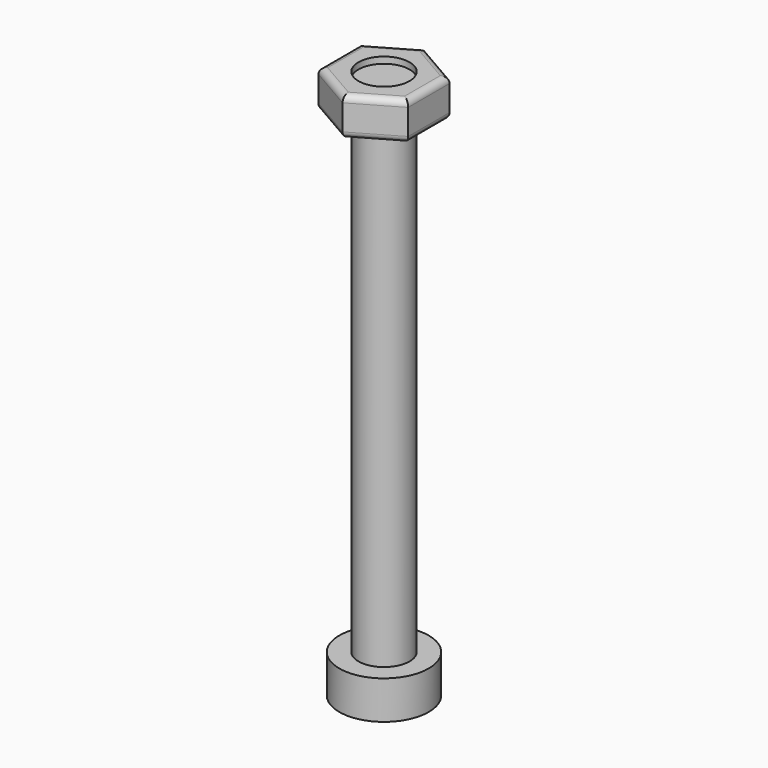
from build123d import *

# Parameters (mm, degrees)
F0_R     = 2
F1_DEPTH = 40
F0_R_2   = 3.5
F2_DEPTH = 3
F3_R     = 2
F4_DEPTH = 3
F5_DEPTH = 0.5
F6_R     = 0.5


with BuildPart() as f1:
    # F0 (on Top) → F1 (new body)
    with BuildSketch(Plane.XY):
        Circle(F0_R)
    extrude(amount=F1_DEPTH)

    # F0 (on Top) → F2 (join)
    with BuildSketch(Plane.XY):
        Circle(F0_R_2)
        Circle(F0_R, mode=Mode.SUBTRACT)
        Circle(F0_R)
    extrude(amount=-F2_DEPTH)

    # F3 (on face) → F5 (cut)
    with BuildSketch(Plane.XY.offset(40)):
        Circle(F3_R)
    extrude(amount=-F5_DEPTH, mode=Mode.SUBTRACT)


with BuildPart() as f4:
    # F3 (on face) → F4 (new body)
    with BuildSketch(Plane.XY.offset(40)):
        Polygon((3.514565, -2.029135), (3.514565, 2.029135), (0, 4.05827), (-3.514565, 2.029135), (-3.514565, -2.029135), (0, -4.05827), align=None)
        Circle(F3_R, mode=Mode.SUBTRACT)
    extrude(amount=-F4_DEPTH)

    # F6
    f6_edges = [f4.edges().sort_by_distance(p)[0] for p in [
        (3.514565, 0, 40),
        (1.757282, 3.043702, 40),
        (-1.757282, 3.043702, 40),
        (-3.514565, 0, 40),
        (-1.757282, -3.043702, 40),
        (1.757282, -3.043702, 40),
        (1.757282, -3.043702, 37),
        (-1.757282, -3.043702, 37),
        (-3.514565, 0, 37),
        (-1.757282, 3.043702, 37),
        (1.757282, 3.043702, 37),
        (3.514565, 0, 37),
    ]]
    fillet(f6_edges, radius=F6_R)


solid = Compound([f1.part, f4.part])
